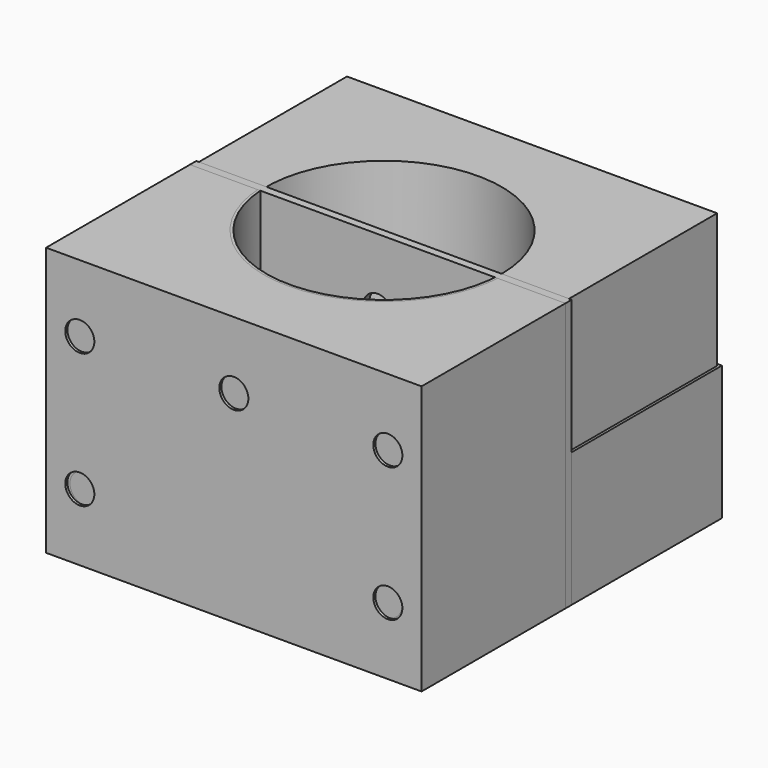
from build123d import *

# Parameters (mm, degrees)
SKETCH_W        = 140
SKETCH_H        = 140
PAD_DEPTH       = 101.6
SKETCH001_R     = 44.5
POCKET_DEPTH    = 76.1
SKETCH002_R     = 5.5
POCKET001_DEPTH = 140.001
SKETCH007_R     = 2
POCKET005_DEPTH = 25.501
CHAMFER_SIZE    = 3
SKETCH003_W     = 140
SKETCH003_H     = 140
PAD001_DEPTH    = 50.8
SKETCH004_R     = 44.5
POCKET002_DEPTH = 50.801
SKETCH005_R     = 5.5
POCKET003_DEPTH = 140.001
SKETCH006_W     = 155.86
SKETCH006_H     = 75.5
POCKET004_DEPTH = 50.801
SKETCH008_W     = 142
SKETCH008_H     = 142
PAD002_DEPTH    = 101.6
SKETCH009_R     = 45.5
POCKET006_DEPTH = 88.85
SKETCH010_R     = 5.5
POCKET007_DEPTH = 142.001
SKETCH011_W     = 155.86
SKETCH011_H     = 75.5
POCKET008_DEPTH = 50.8
SKETCH012_R     = 2
POCKET009_DEPTH = 12.751
CHAMFER001_SIZE = 3
SKETCH013_R     = 19.025
POCKET010_DEPTH = 54
SKETCH014_W     = 142
SKETCH014_H     = 101.6
PAD003_DEPTH    = 3
SKETCH015_R     = 5.5
POCKET011_DEPTH = 71.001
SKETCH016_W     = 140
SKETCH016_H     = 50.8
PAD004_DEPTH    = 3
SKETCH017_R     = 5.5
POCKET012_DEPTH = 5


with BuildPart() as mastbasebody:
    # Sketch → Pad (new body)
    with BuildSketch(Plane.XY):
        Rectangle(SKETCH_W, SKETCH_H)
    extrude(amount=PAD_DEPTH)

    # Sketch001 (on Face6 of Pad) → Pocket (cut)
    with BuildSketch(Plane.XY.offset(101.6)):
        Circle(SKETCH001_R)
    extrude(amount=-POCKET_DEPTH, mode=Mode.SUBTRACT)

    # Sketch002 (on Face6 of Pocket) → Pocket001 (cut, through all)
    with BuildSketch(Plane.XZ.offset(70)):
        with Locations((-57.25, 88.85)):
            Circle(SKETCH002_R)
        with Locations((-57.25, 12.75)):
            Circle(SKETCH002_R)
        with Locations((57.25, 88.85)):
            Circle(SKETCH002_R)
        with Locations((57.25, 12.75)):
            Circle(SKETCH002_R)
    extrude(amount=-POCKET001_DEPTH, mode=Mode.SUBTRACT)

    # Sketch007 (on Face12 of Pocket001) → Pocket005 (cut, through all)
    with BuildSketch(Plane.XY.offset(25.5)):
        Circle(SKETCH007_R)
        with Locations((0, 22)):
            Circle(SKETCH007_R)
        with Locations((22, 0)):
            Circle(SKETCH007_R)
        with Locations((0, -22)):
            Circle(SKETCH007_R)
        with Locations((-22, 0)):
            Circle(SKETCH007_R)
    extrude(amount=-POCKET005_DEPTH, mode=Mode.SUBTRACT)

    # Chamfer
    chamfer_edges = [mastbasebody.edges().sort_by_distance(p)[0] for p in [
        (-2, 22, 25.5),
        (-2, 0, 25.5),
        (20, 0, 25.5),
        (-24, 0, 25.5),
        (-2, -22, 25.5),
    ]]
    chamfer(chamfer_edges, length=CHAMFER_SIZE)


with BuildPart() as holderbody:
    # Sketch003 → Pad001 (new body)
    with BuildSketch(Plane.XY):
        Rectangle(SKETCH003_W, SKETCH003_H)
    extrude(amount=PAD001_DEPTH)

    # Sketch004 (on Face6 of Pad001) → Pocket002 (cut, through all)
    with BuildSketch(Plane.XY.offset(50.8)):
        Circle(SKETCH004_R)
    extrude(amount=-POCKET002_DEPTH, mode=Mode.SUBTRACT)

    # Sketch005 (on Face6 of Pocket002) → Pocket003 (cut, through all)
    with BuildSketch(Plane.XZ.offset(70)):
        with Locations((-57.25, 25.4)):
            Circle(SKETCH005_R)
        with Locations((57.25, 25.4)):
            Circle(SKETCH005_R)
    extrude(amount=-POCKET003_DEPTH, mode=Mode.SUBTRACT)

    # Sketch006 (on Face4 of Pocket003) → Pocket004 (cut, through all)
    with BuildSketch(Plane.XY.offset(50.8)):
        with Locations((-0.75, 35.75)):
            Rectangle(SKETCH006_W, SKETCH006_H)
    extrude(amount=-POCKET004_DEPTH, mode=Mode.SUBTRACT)


with BuildPart() as holderbody001:
    # Sketch008 → Pad002 (new body)
    with BuildSketch(Plane.XY):
        Rectangle(SKETCH008_W, SKETCH008_H)
    extrude(amount=PAD002_DEPTH)

    # Sketch009 (on Face6 of Pad002) → Pocket006 (cut)
    with BuildSketch(Plane.XY.offset(101.6)):
        Circle(SKETCH009_R)
    extrude(amount=-POCKET006_DEPTH, mode=Mode.SUBTRACT)

    # Sketch010 (on Face6 of Pocket006) → Pocket007 (cut, through all)
    with BuildSketch(Plane.XZ.offset(71)):
        with Locations((-58.25, 25.4)):
            Circle(SKETCH010_R)
        with Locations((58.25, 25.4)):
            Circle(SKETCH010_R)
        with Locations((-58.25, 76.2)):
            Circle(SKETCH010_R)
        with Locations((58.25, 76.2)):
            Circle(SKETCH010_R)
        with Locations((0, 76.2)):
            Circle(SKETCH010_R)
    extrude(amount=-POCKET007_DEPTH, mode=Mode.SUBTRACT)

    # Sketch011 (on Face4 of Pocket007) → Pocket008 (cut)
    with BuildSketch(Plane.XY.offset(101.6)):
        with Locations((-0.75, 35.75)):
            Rectangle(SKETCH011_W, SKETCH011_H)
    extrude(amount=-POCKET008_DEPTH, mode=Mode.SUBTRACT)

    # Sketch012 (on Face16 of Pocket008) → Pocket009 (cut, through all)
    with BuildSketch(Plane.XY.offset(12.75)):
        Circle(SKETCH012_R)
        with Locations((-23, 0)):
            Circle(SKETCH012_R)
        with Locations((23, 0)):
            Circle(SKETCH012_R)
        with Locations((0, 23)):
            Circle(SKETCH012_R)
        with Locations((0, -23)):
            Circle(SKETCH012_R)
    extrude(amount=-POCKET009_DEPTH, mode=Mode.SUBTRACT)

    # Chamfer001
    chamfer001_edges = [holderbody001.edges().sort_by_distance(p)[0] for p in [
        (-2, 23, 12.75),
        (-2, 0, 12.75),
        (-25, 0, 12.75),
        (-2, -23, 12.75),
        (21, 0, 12.75),
    ]]
    chamfer(chamfer001_edges, length=CHAMFER001_SIZE)

    # Sketch013 (on Face23 of Chamfer001) → Pocket010 (cut)
    with BuildSketch(Plane(origin=(0, -2, 0), x_dir=(-1, 0, 0), z_dir=(0, 1, 0))):
        with Locations((0, 76.2)):
            Circle(SKETCH013_R)
    extrude(amount=-POCKET010_DEPTH, mode=Mode.SUBTRACT)


with BuildPart() as bigbackbody:
    # Sketch014 → Pad003 (new body)
    with BuildSketch(Plane.XZ):
        with Locations((0, 50.8)):
            Rectangle(SKETCH014_W, SKETCH014_H)
    extrude(amount=PAD003_DEPTH)

    # Sketch015 (on Face6 of Pocket006) → Pocket011 (cut, through all)
    with BuildSketch(Plane.XZ.offset(71)):
        with Locations((-58.25, 25.4)):
            Circle(SKETCH015_R)
        with Locations((58.25, 25.4)):
            Circle(SKETCH015_R)
        with Locations((-58.25, 76.2)):
            Circle(SKETCH015_R)
        with Locations((58.25, 76.2)):
            Circle(SKETCH015_R)
        with Locations((0, 76.2)):
            Circle(SKETCH015_R)
    extrude(amount=-POCKET011_DEPTH, mode=Mode.SUBTRACT)


with BuildPart() as smallbackbody:
    # Sketch016 → Pad004 (new body)
    with BuildSketch(Plane.XZ):
        with Locations((0, 25.4)):
            Rectangle(SKETCH016_W, SKETCH016_H)
    extrude(amount=PAD004_DEPTH)

    # Sketch017 (on Face6 of Pad004) → Pocket012 (cut)
    with BuildSketch(Plane.XZ.offset(3)):
        with Locations((-57.25, 25.4)):
            Circle(SKETCH017_R)
        with Locations((57.25, 25.4)):
            Circle(SKETCH017_R)
    extrude(amount=-POCKET012_DEPTH, mode=Mode.SUBTRACT)


solid = Compound([mastbasebody.part, holderbody.part, holderbody001.part, bigbackbody.part, smallbackbody.part])
